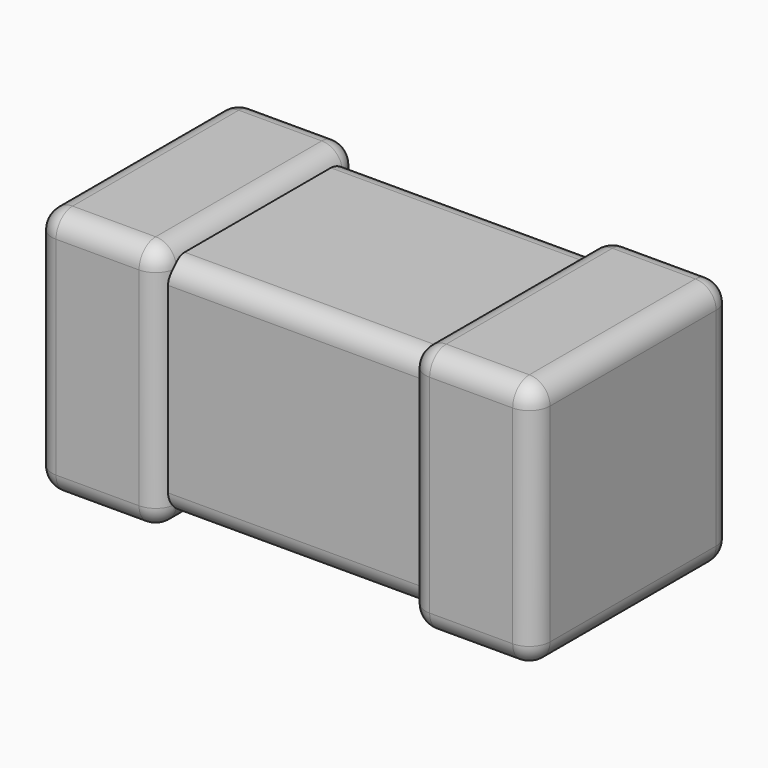
from build123d import *

# Parameters (mm, degrees)
SKETCH_W     = 0.54
SKETCH_H     = 0.27
PAD_DEPTH    = 0.27
FILLET002_R  = 0.025
SKETCH001_W  = 0.15
SKETCH001_H  = 0.3
PAD001_DEPTH = 0.15
FILLET_R     = 0.025
SKETCH002_W  = 0.15
SKETCH002_H  = 0.3
PAD002_DEPTH = 0.15
FILLET001_R  = 0.025


with BuildPart() as body:
    # Sketch → Pad (new body)
    with BuildSketch(Plane.XY.offset(0.015)):
        Rectangle(SKETCH_W, SKETCH_H)
    extrude(amount=PAD_DEPTH)

    # Fillet002
    fillet002_edges = [body.edges().sort_by_distance(p)[0] for p in [
        (0, -0.135, 0.285),
        (0, 0.135, 0.285),
        (0, -0.135, 0.015),
        (0, 0.135, 0.015),
    ]]
    fillet(fillet002_edges, radius=FILLET002_R)


with BuildPart() as body001:
    # Sketch001 → Pad001 (new body, symmetric)
    with BuildSketch(Plane.XZ):
        with Locations((-0.225, 0.15)):
            Rectangle(SKETCH001_W, SKETCH001_H)
    extrude(amount=PAD001_DEPTH, both=True)

    # Fillet
    fillet_edges = [body001.edges().sort_by_distance(p)[0] for p in [
        (-0.3, 0, 0.3),
        (-0.3, 0.15, 0.15),
        (-0.225, 0.15, 0.3),
        (-0.15, 0.15, 0.15),
        (-0.225, 0.15, 0),
        (-0.15, 0, 0),
        (-0.3, 0, 0),
        (-0.3, -0.15, 0.15),
        (-0.225, -0.15, 0),
        (-0.15, -0.15, 0.15),
        (-0.225, -0.15, 0.3),
        (-0.15, 0, 0.3),
    ]]
    fillet(fillet_edges, radius=FILLET_R)


with BuildPart() as fusion:
    # Sketch002 → Pad002 (new body, symmetric)
    with BuildSketch(Plane.XZ):
        with Locations((0.225, 0.15)):
            Rectangle(SKETCH002_W, SKETCH002_H)
    extrude(amount=PAD002_DEPTH, both=True)

    # Fillet001
    fillet001_edges = [fusion.edges().sort_by_distance(p)[0] for p in [
        (0.3, 0, 0),
        (0.3, 0.15, 0.15),
        (0.3, -0.15, 0.15),
        (0.3, 0, 0.3),
        (0.225, -0.15, 0.3),
        (0.225, 0.15, 0.3),
        (0.15, 0, 0.3),
        (0.15, -0.15, 0.15),
        (0.225, -0.15, 0),
        (0.15, 0, 0),
        (0.15, 0.15, 0.15),
        (0.225, 0.15, 0),
    ]]
    fillet(fillet001_edges, radius=FILLET001_R)

    # Fusion: union Body, Body001
    add(body.part)
    add(body001.part)


solid = fusion.part
